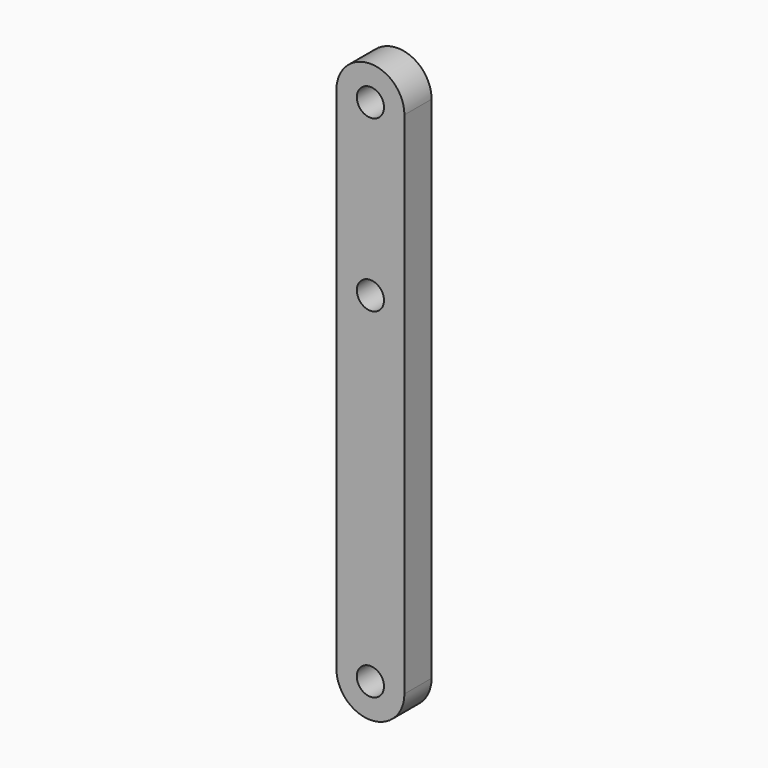
from build123d import *

# Parameters (mm, degrees)
F0_R     = 50.8
F1_DEPTH = 127


with BuildPart() as f1:
    # F0 (on Front) → F1 (new body)
    with BuildSketch(Plane.XZ):
        with BuildLine():
            ThreePointArc((429.137415, 958.365394), (302.137415, 1085.365394), (175.137415, 958.365394))
            Line((175.137415, 958.365394), (175.137415, -946.634606))
            ThreePointArc((175.137415, -946.634606), (302.137415, -1073.634606), (429.137415, -946.634606))
            Line((429.137415, -946.634606), (429.137415, 958.365394))
        make_face()
        with Locations((302.137415, -946.634606)):
            Circle(F0_R, mode=Mode.SUBTRACT)
        with Locations((302.137415, 323.365394)):
            Circle(F0_R, mode=Mode.SUBTRACT)
        with Locations((302.137415, 958.365394)):
            Circle(F0_R, mode=Mode.SUBTRACT)
    extrude(amount=F1_DEPTH)


solid = f1.part
